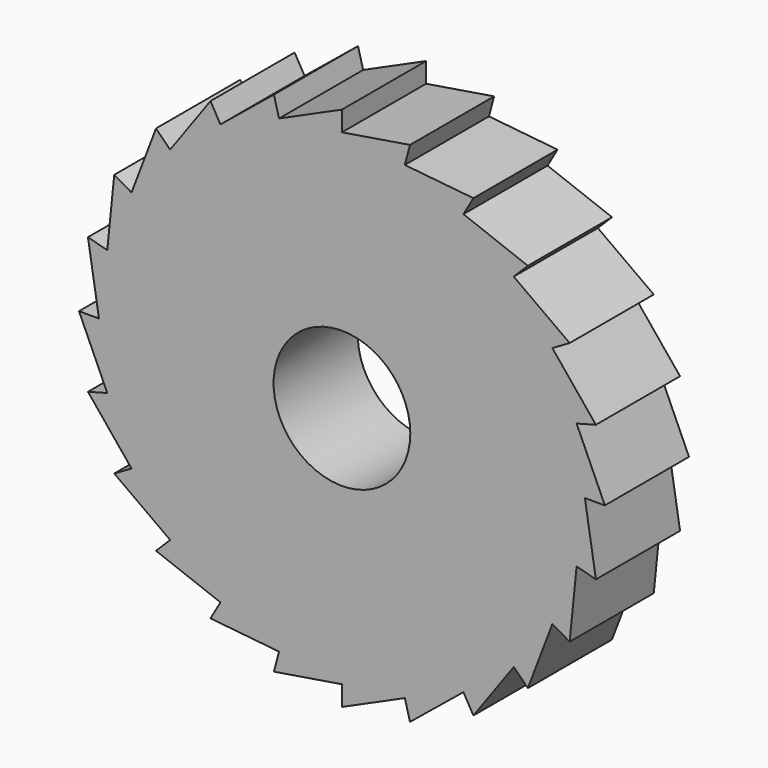
from build123d import *

# Parameters (mm, degrees)
F0_R     = 6.5
F1_DEPTH = 5


with BuildPart() as f1:
    # F0 (on Front) → F1 (new body, symmetric)
    with BuildSketch(Plane.XZ):
        Polygon((0, 23.1), (0, 25), (-5.97872, 22.312887), (-6.470476, 24.148146), (-11.55, 20.005187), (-12.5, 21.650635), (-16.334167, 16.334167), (-17.67767, 17.67767), (-20.005187, 11.55), (-21.650635, 12.5), (-22.312887, 5.97872), (-24.148146, 6.470476), (-23.1, 0), (-25, 0), (-22.312887, -5.97872), (-24.148146, -6.470476), (-20.005187, -11.55), (-21.650635, -12.5), (-16.334167, -16.334167), (-17.67767, -17.67767), (-11.55, -20.005187), (-12.5, -21.650635), (-5.97872, -22.312887), (-6.470476, -24.148146), (0, -23.1), (0, -25), (5.97872, -22.312887), (6.470476, -24.148146), (11.55, -20.005187), (12.5, -21.650635), (16.334167, -16.334167), (17.67767, -17.67767), (20.005187, -11.55), (21.650635, -12.5), (22.312887, -5.97872), (24.148146, -6.470476), (23.1, 0), (25, 0), (22.312887, 5.97872), (24.148146, 6.470476), (20.005187, 11.55), (21.650635, 12.5), (16.334167, 16.334167), (17.67767, 17.67767), (11.55, 20.005187), (12.5, 21.650635), (5.97872, 22.312887), (6.470476, 24.148146), align=None)
        Circle(F0_R, mode=Mode.SUBTRACT)
    extrude(amount=F1_DEPTH, both=True)


solid = f1.part
